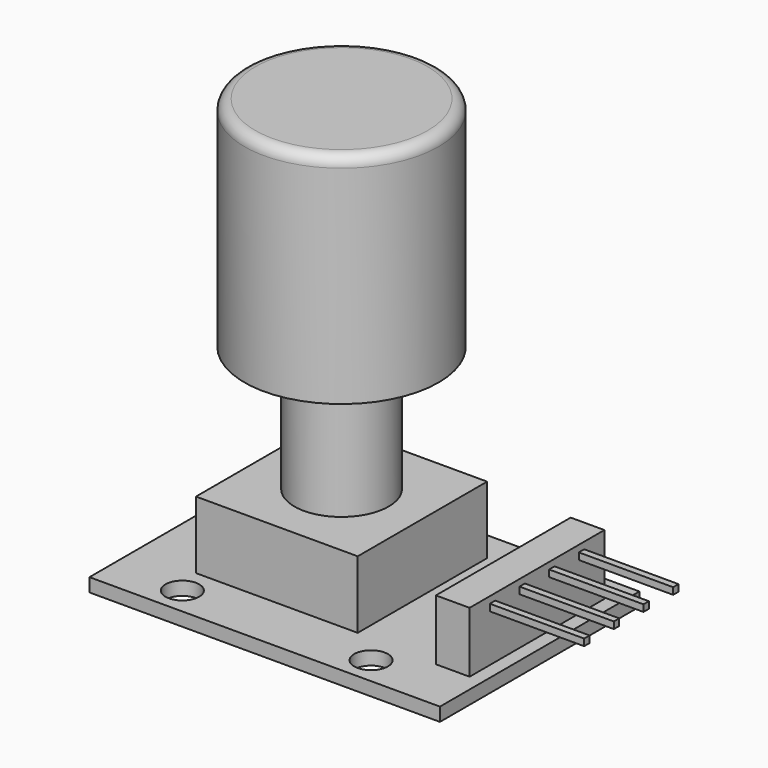
from build123d import *

# Parameters (mm, degrees)
F0_W      = 26
F0_H      = 18.5
F0_R      = 1.25
F1_DEPTH  = 1
F2_W      = 12
F2_H      = 12
F3_DEPTH  = 5
F4_R      = 3.5
F5_DEPTH  = 9.3
F6_R      = 7.2
F7_DEPTH  = 16.2
F8_R      = 0.8
F9_W      = 2.5
F9_H      = 12.5
F10_DEPTH = 4.5
F11_W     = 0.5
F11_H     = 0.5
F12_DEPTH = 7


with BuildPart() as f1:
    # F0 (on Top) → F1 (new body)
    with BuildSketch(Plane.XY):
        Rectangle(F0_W, F0_H)
        with Locations((-7.75, -7.2)):
            Circle(F0_R, mode=Mode.SUBTRACT)
        with Locations((6.25, -7.2)):
            Circle(F0_R, mode=Mode.SUBTRACT)
    extrude(amount=F1_DEPTH)

    # F2 (on face) → F3 (join)
    with BuildSketch(Plane.XY.offset(1)):
        with Locations((-2.5, 1)):
            Rectangle(F2_W, F2_H)
    extrude(amount=F3_DEPTH)

    # F4 (on face) → F5 (join)
    with BuildSketch(Plane.XY.offset(6)):
        with Locations((-2.5, 1)):
            Circle(F4_R)
    extrude(amount=F5_DEPTH)

    # F6 (on face) → F7 (join)
    with BuildSketch(Plane.XY.offset(15.3)):
        with Locations((-2.5, 1)):
            Circle(F6_R)
    extrude(amount=F7_DEPTH)

    # F8
    f8_edges = [f1.edges().sort_by_distance(p)[0] for p in [
        (-9.7, 1, 31.5),
    ]]
    fillet(f8_edges, radius=F8_R)

    # F9 (on face) → F10 (join)
    with BuildSketch(Plane.XY.offset(1)):
        with Locations((10.75, 1)):
            Rectangle(F9_W, F9_H)
    extrude(amount=F10_DEPTH)

    # F11 (on face) → F12 (join)
    with BuildSketch(Plane.YZ.offset(12)):
        with Locations((-3.125, 4.757234)):
            Rectangle(F11_W, F11_H)
        with Locations((-0.375, 4.757234)):
            Rectangle(F11_W, F11_H)
        with Locations((2.375, 4.757234)):
            Rectangle(F11_W, F11_H)
        with Locations((5.125, 4.757234)):
            Rectangle(F11_W, F11_H)
    extrude(amount=F12_DEPTH)


solid = f1.part
